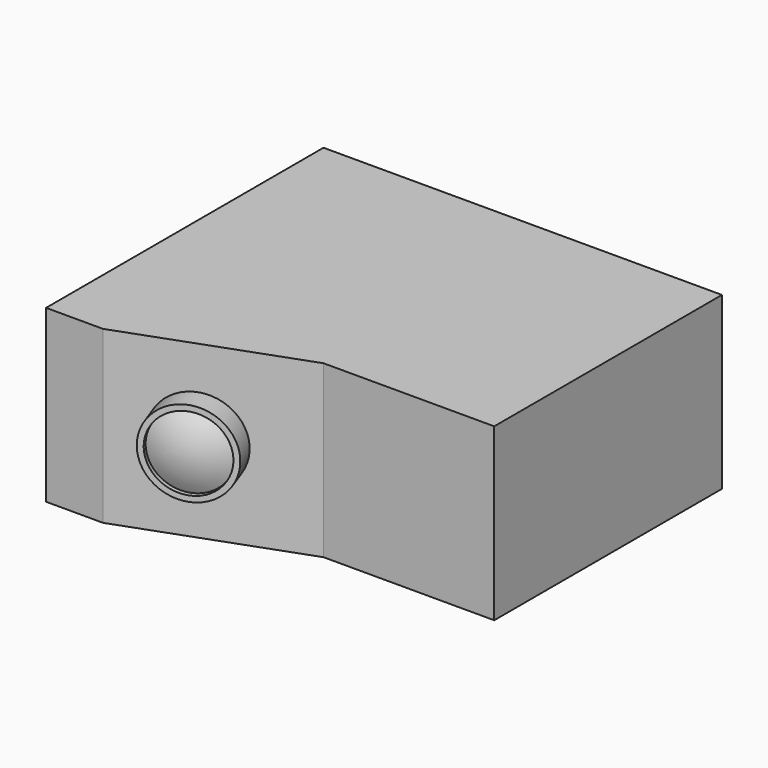
from build123d import *

# Parameters (mm, degrees)
F1_DEPTH = 30


with BuildPart() as f1:
    # F0 (on Top) → F1 (new body, symmetric)
    with BuildSketch(Plane.XY):
        Polygon((-140, 121.838214056), (-140, 0), (-120, 0), (-60, 21.838214056), (0, 21.838214056), (0, 121.838214056), align=None)
    extrude(amount=F1_DEPTH, both=True)


with BuildPart() as f3:
    # F2 (on Top) → F3 (revolve)
    with BuildSketch(Plane.XY):
        with BuildLine():
            Line((-94.1821574316, 9.3969262079), (-108.2775467434, 4.266624058))
            Line((-108.2775467434, 4.266624058), (-105.5413855968, -3.2509169083))
            Line((-105.5413855968, -3.2509169083), (-103.6620003552, -2.5668766217))
            Line((-103.6620003552, -2.5668766217), (-104.2249119836, -1.0202896336))
            ThreePointArc((-104.2249119836, -1.0202896336), (-97.4232529139, -1.4362002438), (-90.7619559984, 0))
            Line((-90.7619559984, 0), (-94.1821574316, 9.3969262079))
        make_face()
    revolve(axis=Axis((-92.472056715, 4.6984631039, 0), (-0.3420201433, 0.9396926208, 0)))


solid = Compound([f1.part, f3.part])
